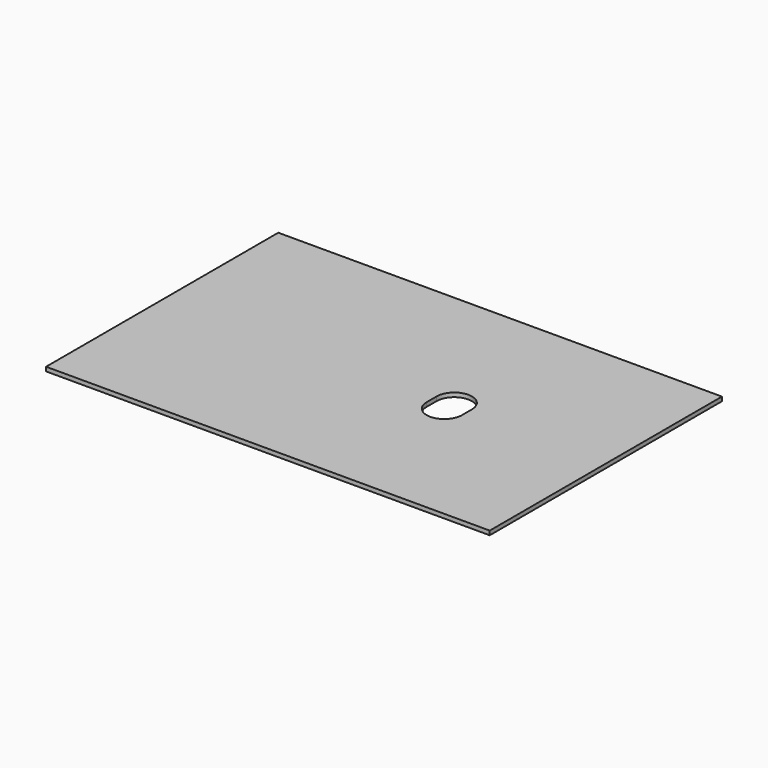
from build123d import *

# Parameters (mm, degrees)
F0_W     = 428
F0_H     = 280
F1_DEPTH = 4


with BuildPart() as f1:
    # F0 (on Top) → F1 (new body)
    with BuildSketch(Plane.XY):
        Rectangle(F0_W, F0_H)
        with BuildLine():
            ThreePointArc((46, 6), (63, 23), (80, 6))
            Line((80, 6), (80, -6))
            ThreePointArc((80, -6), (63, -23), (46, -6))
            Line((46, -6), (46, 6))
        make_face(mode=Mode.SUBTRACT)
    extrude(amount=F1_DEPTH)


solid = f1.part
